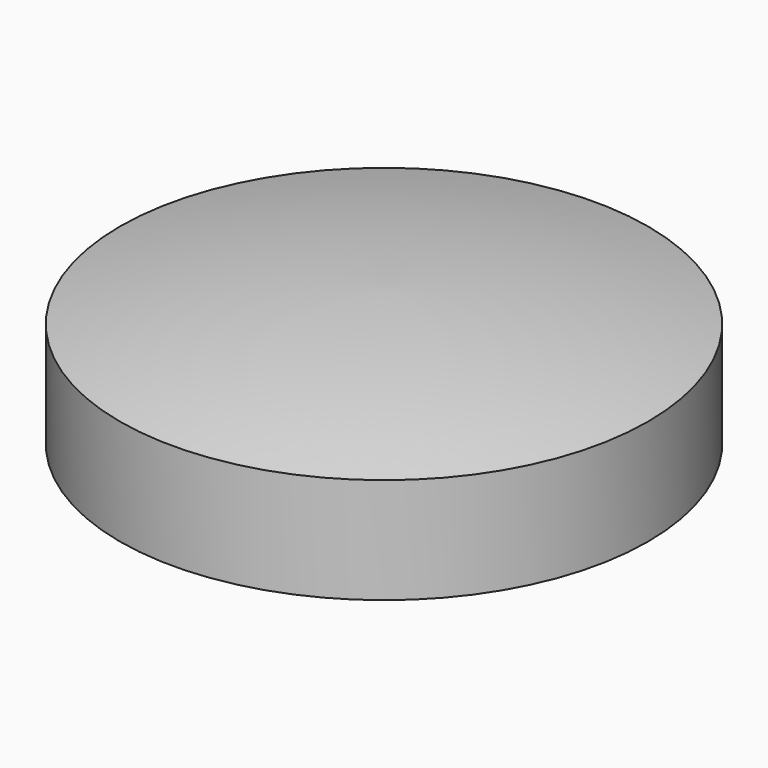
from build123d import *

# Parameters (mm, degrees)
CYLINDER_R     = 12.5
CYLINDER_DEPTH = 8.068975


with BuildPart() as sphere001:
    # Sphere001 → Sphere001 (revolve)
    with BuildSketch(Plane(origin=(0, 0, -47.645512), x_dir=(1, 0, 0), z_dir=(0, -1, 0))):
        with BuildLine():
            ThreePointArc((0, -51.68), (51.68, 0), (0, 51.68))
            Line((0, 51.68), (0, -51.68))
        make_face()
    revolve(axis=Axis((0, 0, -47.645512), (0, 0, 1)))


with BuildPart() as common:
    # Sphere → Sphere (revolve)
    with BuildSketch(Plane(origin=(0, 0, 47.645512), x_dir=(1, 0, 0), z_dir=(0, -1, 0))):
        with BuildLine():
            ThreePointArc((0, -51.68), (51.68, 0), (0, 51.68))
            Line((0, 51.68), (0, -51.68))
        make_face()
    revolve(axis=Axis((0, 0, 47.645512), (0, 0, 1)))

    # Common: intersect Sphere001
    add(sphere001.part, mode=Mode.INTERSECT)


with BuildPart() as lens:
    # Cylinder → Cylinder (new body)
    with BuildSketch(Plane.XY.offset(-4.034488)):
        Circle(CYLINDER_R)
    extrude(amount=CYLINDER_DEPTH)

    # Common001: intersect Common
    add(common.part, mode=Mode.INTERSECT)


solid = lens.part
